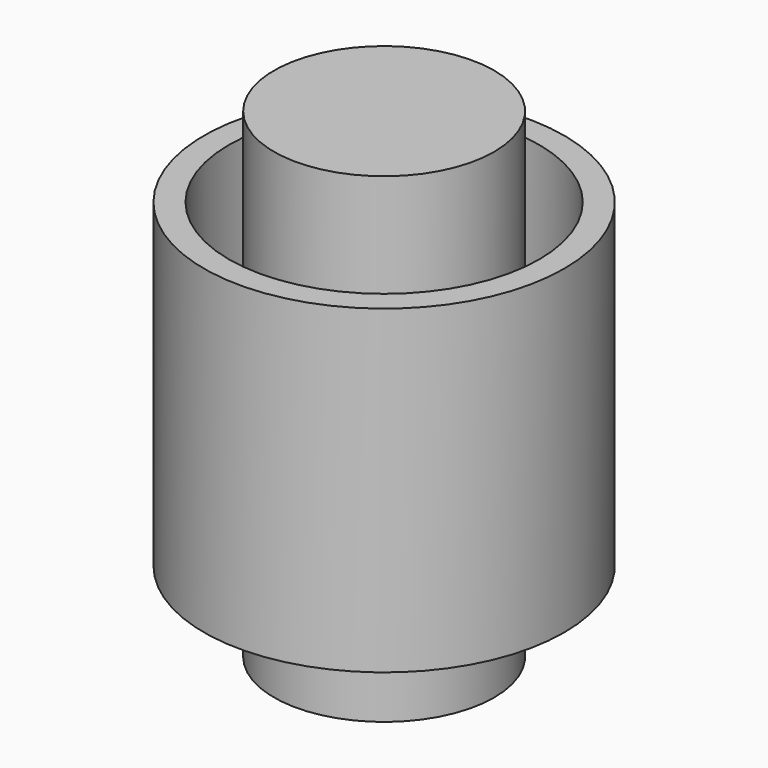
from build123d import *

# Parameters (mm, degrees)
F0_R     = 34.925
F1_DEPTH = 76.2
F2_R     = 57.15
F2_R_2   = 49.2125
F3_DEPTH = 50.8
F5_W     = 20.828
F5_H     = 76.2
F6_DEPTH = 12.2428


with BuildPart() as f1:
    # F0 (on Top) → F1 (new body, symmetric)
    with BuildSketch(Plane.XY):
        Circle(F0_R)
    extrude(amount=F1_DEPTH, both=True)


with BuildPart() as f3:
    # F2 (on Top) → F3 (new body, symmetric)
    with BuildSketch(Plane.XY):
        Circle(F2_R)
        Circle(F2_R_2, mode=Mode.SUBTRACT)
    extrude(amount=F3_DEPTH, both=True)


with BuildPart() as f6:
    # F5 (on offset) → F6 (new body)
    with BuildSketch(Plane.XZ.offset(34.925)):
        Rectangle(F5_W, F5_H)
    extrude(amount=F6_DEPTH)


solid = Compound([f1.part, f3.part, f6.part])
